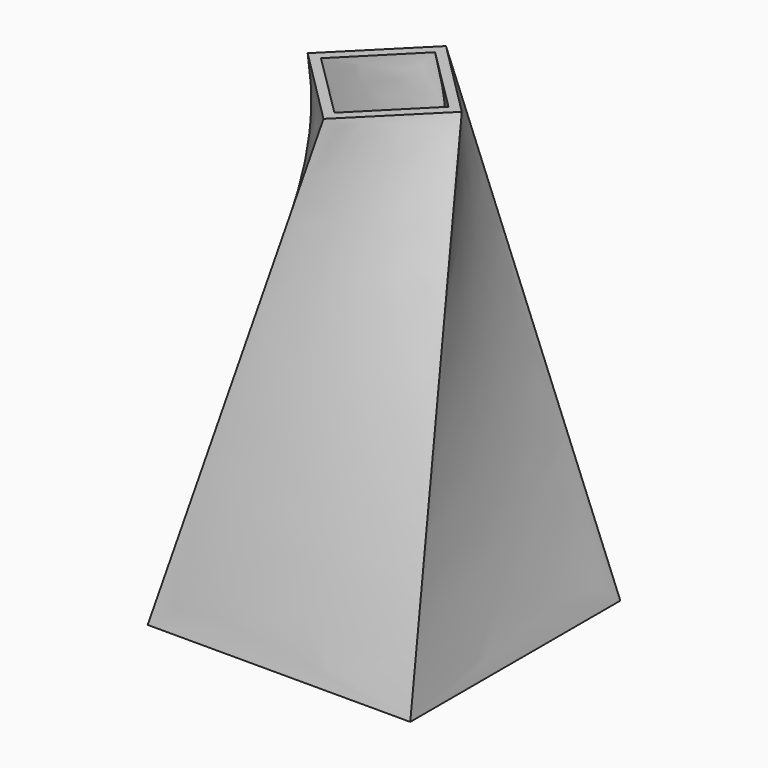
from build123d import *

# Parameters (mm, degrees)
F0_W = 56.13058
F0_H = 56.130584
F4_T = -2


with BuildPart() as f3:
    # F2 (on offset) → F3 section 0
    with BuildSketch(Plane.XY.offset(100)):
        Polygon((17.008768, -0.472353), (0.110915, 16.4255), (-16.314585, 0), (0.583268, -16.897853), align=None)
    # F0 (on Top) → F3 section 1
    with BuildSketch(Plane.XY):
        Rectangle(F0_W, F0_H)
    loft()

    # F4
    f4_openings = [f3.faces().sort_by_distance(p)[0] for p in [
        (0.347092, -0.236176, 100),
    ]]
    offset(amount=F4_T, openings=f4_openings)


solid = f3.part
